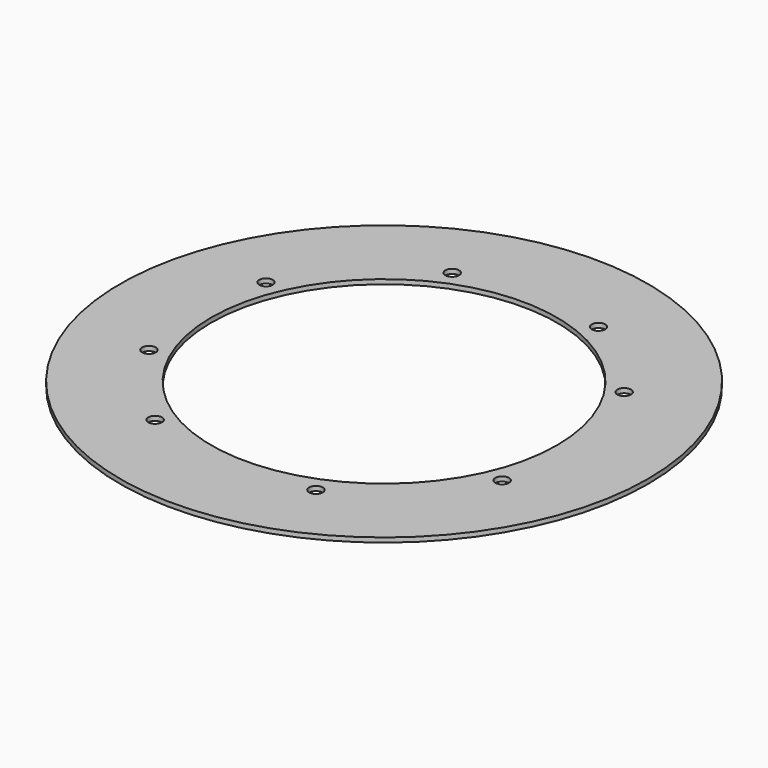
from build123d import *

# Parameters (mm, degrees)
CYLINDER716_R               = 1.5
CYLINDER716_DEPTH           = 100
CYLINDER720_R               = 1.5
CYLINDER720_DEPTH           = 100
CYLINDER720_ROLL_ANGLE      = -0.500355
CYLINDER720_PITCH_ANGLE     = 0.967193
CYLINDER720_PLACEMENT_ANGLE = 144.93646
CYLINDER715_R               = 1.5
CYLINDER715_DEPTH           = 100
CYLINDER717_R               = 1.5
CYLINDER717_DEPTH           = 100
CYLINDER717_PLACEMENT_ANGLE = 225
CYLINDER721_R               = 1.5
CYLINDER721_DEPTH           = 100
CYLINDER719_R               = 1.5
CYLINDER719_DEPTH           = 100
CYLINDER719_PLACEMENT_ANGLE = 45
CYLINDER714_R               = 1.5
CYLINDER714_DEPTH           = 100
CYLINDER714_ROLL_ANGLE      = 0.146073
CYLINDER714_PITCH_ANGLE     = 1.079101
CYLINDER714_PLACEMENT_ANGLE = -9.939308
CYLINDER718_R               = 1.5
CYLINDER718_DEPTH           = 100
CYLINDER718_PLACEMENT_ANGLE = 45
TUBE078_R                   = 58
TUBE078_R_2                 = 38
TUBE078_DEPTH               = 1


with BuildPart() as obj1:
    # Cylinder716 → Cylinder716 (new body)
    with BuildSketch(Plane(origin=(38.80294, -16.072704, 0), x_dir=(0, 1, 0), z_dir=(0, 0, 1))):
        Circle(CYLINDER716_R)
    extrude(amount=CYLINDER716_DEPTH)


with BuildPart() as obj2:
    # Cylinder720 → Cylinder720 (new body)
    with BuildSketch(Plane.XY):
        Circle(CYLINDER720_R)
    extrude(amount=CYLINDER720_DEPTH)


with BuildPart() as obj2_1:
    # Cylinder720 roll: moved
    add(obj2.part.rotate(Axis((0, 0, 0), (1, 0, 0)), CYLINDER720_ROLL_ANGLE))


with BuildPart() as obj2_2:
    # Cylinder720 pitch: moved
    add(obj2_1.part.rotate(Axis((0, 0, 0), (0, 1, 0)), CYLINDER720_PITCH_ANGLE))


with BuildPart() as obj2_3:
    # Cylinder720 placement: moved
    add(obj2_2.part.moved(Location((35.440039, 22.530677, 0.610113))).rotate(Axis((35.440039, 22.530677, 0.610113), (0, 0, 1)), CYLINDER720_PLACEMENT_ANGLE))


with BuildPart() as obj3:
    # Cylinder715 → Cylinder715 (new body)
    with BuildSketch(Plane(origin=(16.072704, 38.80294, 0), x_dir=(-1, 0, 0), z_dir=(0, 0, 1))):
        Circle(CYLINDER715_R)
    extrude(amount=CYLINDER715_DEPTH)


with BuildPart() as obj4:
    # Cylinder717 → Cylinder717 (new body)
    with BuildSketch(Plane.XY):
        Circle(CYLINDER717_R)
    extrude(amount=CYLINDER717_DEPTH)


with BuildPart() as obj4_1:
    # Cylinder717 placement: moved
    add(obj4.part.moved(Location((-16.072704, 38.80294, 0))).rotate(Axis((-16.072704, 38.80294, 0), (0, 0, 1)), CYLINDER717_PLACEMENT_ANGLE))


with BuildPart() as obj5:
    # Cylinder721 → Cylinder721 (new body)
    with BuildSketch(Plane(origin=(-38.80294, 16.072704, 0), x_dir=(0, -1, 0), z_dir=(0, 0, 1))):
        Circle(CYLINDER721_R)
    extrude(amount=CYLINDER721_DEPTH)


with BuildPart() as obj6:
    # Cylinder719 → Cylinder719 (new body)
    with BuildSketch(Plane.XY):
        Circle(CYLINDER719_R)
    extrude(amount=CYLINDER719_DEPTH)


with BuildPart() as obj6_1:
    # Cylinder719 placement: moved
    add(obj6.part.moved(Location((-38.80294, -16.072704, 0))).rotate(Axis((-38.80294, -16.072704, 0), (0, 0, -1)), CYLINDER719_PLACEMENT_ANGLE))


with BuildPart() as obj7:
    # Cylinder714 → Cylinder714 (new body)
    with BuildSketch(Plane.XY):
        Circle(CYLINDER714_R)
    extrude(amount=CYLINDER714_DEPTH)


with BuildPart() as obj7_1:
    # Cylinder714 roll: moved
    add(obj7.part.rotate(Axis((0, 0, 0), (1, 0, 0)), CYLINDER714_ROLL_ANGLE))


with BuildPart() as obj7_2:
    # Cylinder714 pitch: moved
    add(obj7_1.part.rotate(Axis((0, 0, 0), (0, 1, 0)), CYLINDER714_PITCH_ANGLE))


with BuildPart() as obj7_3:
    # Cylinder714 placement: moved
    add(obj7_2.part.moved(Location((-22.528054, -35.446371, 0.203785))).rotate(Axis((-22.528054, -35.446371, 0.203785), (0, 0, 1)), CYLINDER714_PLACEMENT_ANGLE))


with BuildPart() as compound701:
    # Cylinder718 → Cylinder718 (new body)
    with BuildSketch(Plane.XY):
        Circle(CYLINDER718_R)
    extrude(amount=CYLINDER718_DEPTH)


with BuildPart() as compound701_1:
    # Cylinder718 placement: moved
    add(compound701.part.moved(Location((16.072704, -38.80294, 0))).rotate(Axis((16.072704, -38.80294, 0), (0, 0, 1)), CYLINDER718_PLACEMENT_ANGLE))

    # Compound701: union obj1, obj2, obj3, obj4, obj5, obj6, obj7
    add(obj1.part)
    add(obj2_3.part)
    add(obj3.part)
    add(obj4_1.part)
    add(obj5.part)
    add(obj6_1.part)
    add(obj7_3.part)


with BuildPart() as obj8:
    # Tube078 → Tube078 (new body)
    with BuildSketch(Plane.XY.offset(42)):
        Circle(TUBE078_R)
        Circle(TUBE078_R_2, mode=Mode.SUBTRACT)
    extrude(amount=TUBE078_DEPTH)

    # Cut320: cut Compound701
    add(compound701_1.part, mode=Mode.SUBTRACT)


solid = obj8.part
